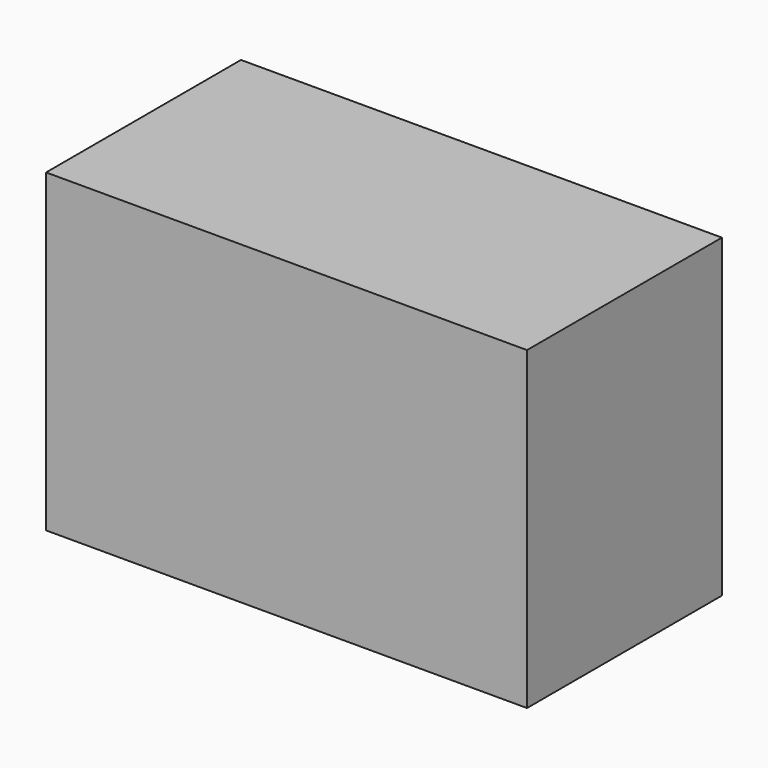
from build123d import *

# Parameters (mm, degrees)
F0_W     = 40.1168912649
F0_H     = 26.2875333428
F1_DEPTH = 25.4
F2_SIZE  = 5.08
F3_R     = 10


with BuildPart() as f1:
    # F0 (on Front) → F1 (new body)
    with BuildSketch(Plane.XZ):
        with Locations((20.0584456325, 26.0967053473)):
            Rectangle(F0_W, F0_H)
    extrude(amount=F1_DEPTH)

    # F2
    f2_edges = [f1.edges().sort_by_distance(p)[0] for p in [
        (40.116891, 0, 26.096705),
        (20.058446, 0, 39.240472),
        (0, 0, 26.096705),
        (20.058446, 0, 12.952939),
    ]]
    chamfer(f2_edges, length=F2_SIZE)

    # F3
    f3_edges = [f1.edges().sort_by_distance(p)[0] for p in [
        (35.036891, 0, 26.096705),
        (20.058446, 0, 34.160472),
        (5.08, 0, 26.096705),
        (20.058446, 0, 18.032939),
    ]]
    fillet(f3_edges, radius=F3_R)


solid = f1.part
